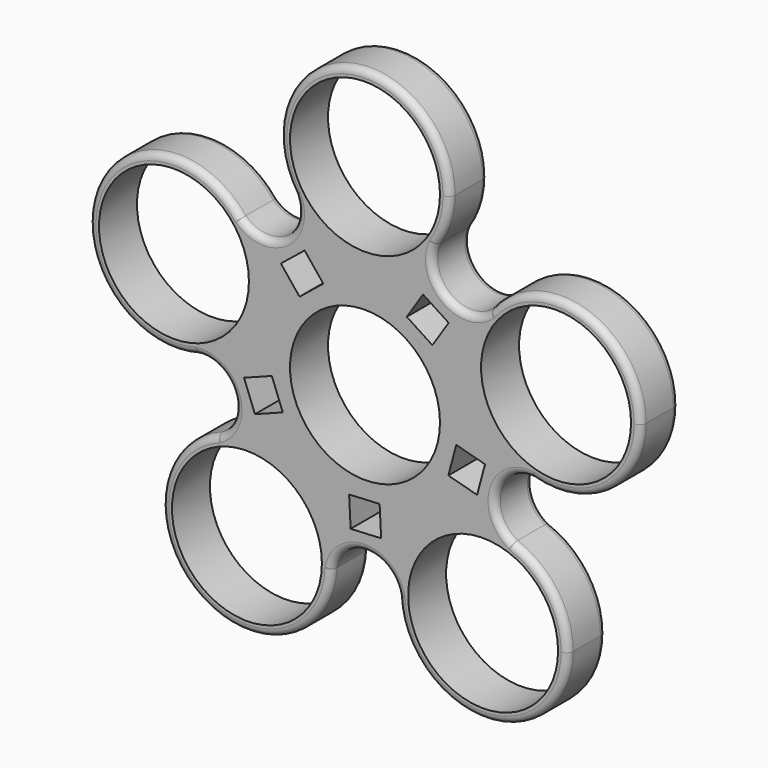
from build123d import *

# Parameters (mm, degrees)
F0_R     = 11.05
F0_R_2   = 12.5
F1_DEPTH = 7
F3_DEPTH = 7
F4_R     = 1


with BuildPart() as f1:
    # F0 (on Front) → F1 (new body)
    with BuildSketch(Plane.XZ):
        with BuildLine():
            ThreePointArc((10.3933043713, 22.664279536), (11.961737011, 25.9803907796), (12.5, 29.6090058982))
            ThreePointArc((12.5, 29.6090058982), (-3.6378299357, 41.5679437005), (-10.3825909374, 22.6482727884))
            ThreePointArc((-10.3825909374, 22.6482727884), (0.0096305975, 17.1090096082), (10.3933043713, 22.664279536))
        make_face()
        with Locations((0, 29.6090058982)):
            Circle(F0_R, mode=Mode.SUBTRACT)
        with BuildLine():
            ThreePointArc((10.3933043713, 22.664279536), (0.0096305975, 17.1090096082), (-10.3825909374, 22.6482727884))
            ThreePointArc((-10.3825909374, 22.6482727884), (-11.984300973, 16.4808224305), (-18.3433030614, 16.8882673901))
            ThreePointArc((-18.3433030614, 16.8882673901), (-16.3497430234, 13.2450073189), (-15.6598380005, 9.1496860091))
            ThreePointArc((-15.6598380005, 9.1496860091), (-18.1874844867, 1.6129648789), (-24.7481844636, -2.8757295822))
            ThreePointArc((-24.7481844636, -2.8757295822), (-19.3775462328, -6.3048933213), (-21.7300891292, -12.2267562779))
            ThreePointArc((-21.7300891292, -12.2267562779), (-10.2563389296, -13.6992047654), (-4.903737002, -23.9541889582))
            ThreePointArc((-4.903737002, -23.9541889582), (-4.9059600044, -24.1899221083), (-4.9126282209, -24.4255714127))
            ThreePointArc((-4.9126282209, -24.4255714127), (0.0083187826, -20.3774607986), (4.913369401, -24.444818342))
            ThreePointArc((4.913369401, -24.444818342), (10.048632212, -13.8471402531), (21.712013249, -12.2201037455))
            ThreePointArc((21.712013249, -12.2201037455), (19.3826875232, -6.2890700566), (24.7667184183, -2.8809723063))
            ThreePointArc((24.7667184183, -2.8809723063), (16.2746110935, 5.2778154833), (18.331390373, 16.8731319519))
            ThreePointArc((18.331390373, 16.8731319519), (11.9708409001, 16.490601746), (10.3933043713, 22.664279536))
        make_face()
        Circle(F0_R_2, mode=Mode.SUBTRACT)
        with BuildLine():
            ThreePointArc((-15.6598380005, 9.1496860091), (-16.3497430234, 13.2450073189), (-18.3433030614, 16.8882673901))
            ThreePointArc((-18.3433030614, 16.8882673901), (-40.0510169442, 13.0032380498), (-24.7481844636, -2.8757295822))
            ThreePointArc((-24.7481844636, -2.8757295822), (-18.1874844867, 1.6129648789), (-15.6598380005, 9.1496860091))
        make_face()
        with Locations((-28.1598380005, 9.1496860091)):
            Circle(F0_R, mode=Mode.SUBTRACT)
        with BuildLine():
            ThreePointArc((40.6598380005, 9.1496860091), (32.2460590332, 20.9629327124), (18.331390373, 16.8731319519))
            ThreePointArc((18.331390373, 16.8731319519), (16.2746110935, 5.2778154833), (24.7667184183, -2.8809723063))
            ThreePointArc((24.7667184183, -2.8809723063), (35.7042400717, -0.8168578948), (40.6598380005, 9.1496860091))
        make_face()
        with Locations((28.1598380005, 9.1496860091)):
            Circle(F0_R, mode=Mode.SUBTRACT)
        with BuildLine():
            ThreePointArc((-4.903737002, -23.9541889582), (-10.2563389296, -13.6992047654), (-21.7300891292, -12.2267562779))
            ThreePointArc((-21.7300891292, -12.2267562779), (-24.743259158, -34.0725591097), (-4.9126282209, -24.4255714127))
            ThreePointArc((-4.9126282209, -24.4255714127), (-4.9059600044, -24.1899221083), (-4.903737002, -23.9541889582))
        make_face()
        with Locations((-17.403737002, -23.9541889582)):
            Circle(F0_R, mode=Mode.SUBTRACT)
        with BuildLine():
            ThreePointArc((29.903737002, -23.9541889582), (27.6532114541, -16.7988920771), (21.712013249, -12.2201037455))
            ThreePointArc((21.712013249, -12.2201037455), (10.048632212, -13.8471402531), (4.913369401, -24.444818342))
            ThreePointArc((4.913369401, -24.444818342), (17.6490989669, -36.4517806265), (29.903737002, -23.9541889582))
        make_face()
        with Locations((17.403737002, -23.9541889582)):
            Circle(F0_R, mode=Mode.SUBTRACT)
        Circle(F0_R_2)
        Circle(F0_R, mode=Mode.SUBTRACT)
    extrude(amount=F1_DEPTH)

    # F2 (on Front) → F3 (cut)
    with BuildSketch(Plane.XZ):
        Polygon((-6.1427335896, 12.4399881359), (-8.9012685089, 15.8541390787), (-12.40375687, 13.0242300881), (-9.6452219507, 9.6100791453), align=None)
        Polygon((-17.8288255218, -3.5664110122), (-16.2197505619, -7.7719653619), (-12.1202658905, -6.2034734141), (-13.7293408504, -1.9979190644), align=None)
        Polygon((-2.1175516431, -18.0583023021), (2.3793997337, -17.8275688411), (2.1544856777, -13.4440365635), (-2.3424656991, -13.6747700245), align=None)
        Polygon((16.5201066335, -7.5942335897), (17.6903004701, -3.2460781187), (13.4518112676, -2.1053981281), (12.2816174309, -6.4535535991), align=None)
        Polygon((12.3275390403, 13.3648078252), (8.5538072281, 15.8213822336), (6.159190896, 12.1428289605), (9.9329227082, 9.6862545521), align=None)
    extrude(amount=F3_DEPTH, mode=Mode.SUBTRACT)

    # F4 (call 1 of 2: OpenCascade refuses the feature's edges together)
    f4_edges = [f1.edges().sort_by_distance(p)[0] for p in [
        (-40.051017, -7, 13.003238),
        (-11.984301, -7, 16.480822),
        (-0.009631, -7, 42.109002),
        (11.970841, -7, 16.490602),
        (40.045065, -7, 13.021557),
        (19.382688, -7, -6.28907),
        (24.758842, -7, -34.061238),
        (0.008319, -7, -20.377461),
        (-24.743259, -7, -34.072559),
        (-19.377546, -7, -6.304893),
    ]]
    fillet(f4_edges, radius=F4_R)

    # F4#2 (call 2 of 2)
    f4_2_edges = [f1.edges().sort_by_distance(p)[0] for p in [
        (24.758842, 0, -34.061238),
        (19.382688, 0, -6.28907),
        (11.970841, 0, 16.490602),
        (-0.009631, 0, 42.109002),
        (40.045065, 0, 13.021557),
        (-11.984301, 0, 16.480822),
        (-40.051017, 0, 13.003238),
        (-19.377546, 0, -6.304893),
        (-24.743259, 0, -34.072559),
        (0.008319, 0, -20.377461),
    ]]
    fillet(f4_2_edges, radius=F4_R)


solid = f1.part
